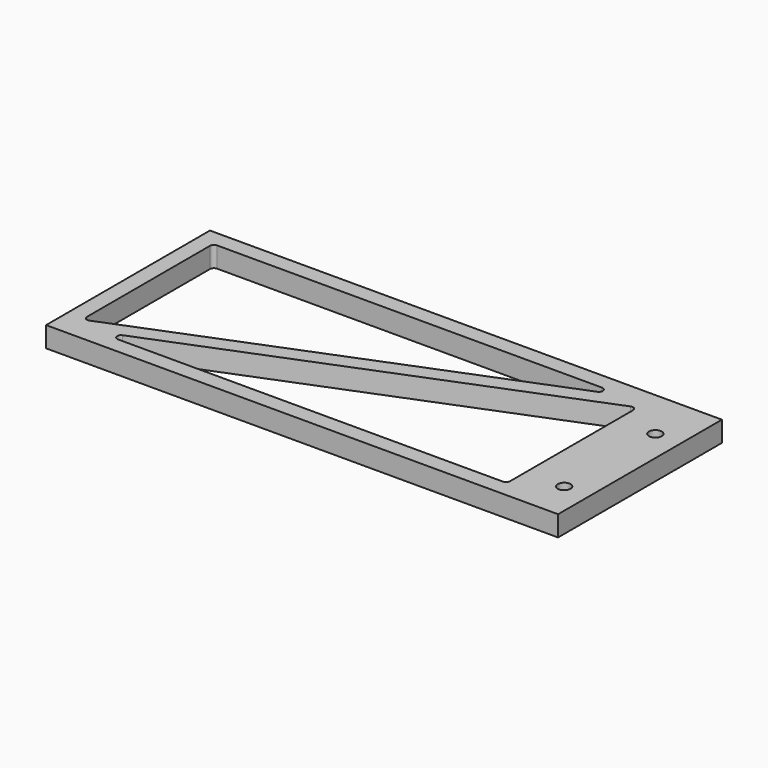
from build123d import *

# Parameters (mm, degrees)
SKETCH_W     = 127
SKETCH_H     = 50.8
PAD_DEPTH    = 5.08
SKETCH001_R  = 1.5875
POCKET_DEPTH = 5.081
FILLET_R     = 0.999998
FILLET001_R  = 0.999998
FILLET002_R  = 0.999998


with BuildPart() as part:
    # Sketch → Pad (new body)
    with BuildSketch(Plane.XY):
        Rectangle(SKETCH_W, SKETCH_H)
    extrude(amount=PAD_DEPTH)

    # Sketch001 (on Face6 of Pad) → Pocket (cut, through all)
    with BuildSketch(Plane.XY.offset(5.08)):
        with Locations((57.15, 12.7)):
            Circle(SKETCH001_R)
        with Locations((57.15, -15.567334)):
            Circle(SKETCH001_R)
        Polygon((-54.077858, -21.3868), (47.585089, -21.3868), (47.585089, 19.226009), align=None)
        Polygon((42.176147, 21.3868), (-59.4868, 21.3868), (-59.4868, -19.226009), align=None)
    extrude(amount=-POCKET_DEPTH, mode=Mode.SUBTRACT)

    # Fillet
    fillet_edges = [part.edges().sort_by_distance(p)[0] for p in [
        (-59.4868, 21.3868, 2.54),
        (47.585089, -21.3868, 2.54),
    ]]
    fillet(fillet_edges, radius=FILLET_R)

    # Fillet001
    fillet001_edges = [part.edges().sort_by_distance(p)[0] for p in [
        (-54.077858, -21.3868, 2.54),
        (42.176147, 21.3868, 2.54),
    ]]
    fillet(fillet001_edges, radius=FILLET001_R)

    # Fillet002
    fillet002_edges = [part.edges().sort_by_distance(p)[0] for p in [
        (47.585089, 19.226009, 2.54),
        (-59.4868, -19.226009, 2.54),
    ]]
    fillet(fillet002_edges, radius=FILLET002_R)


solid = part.part
